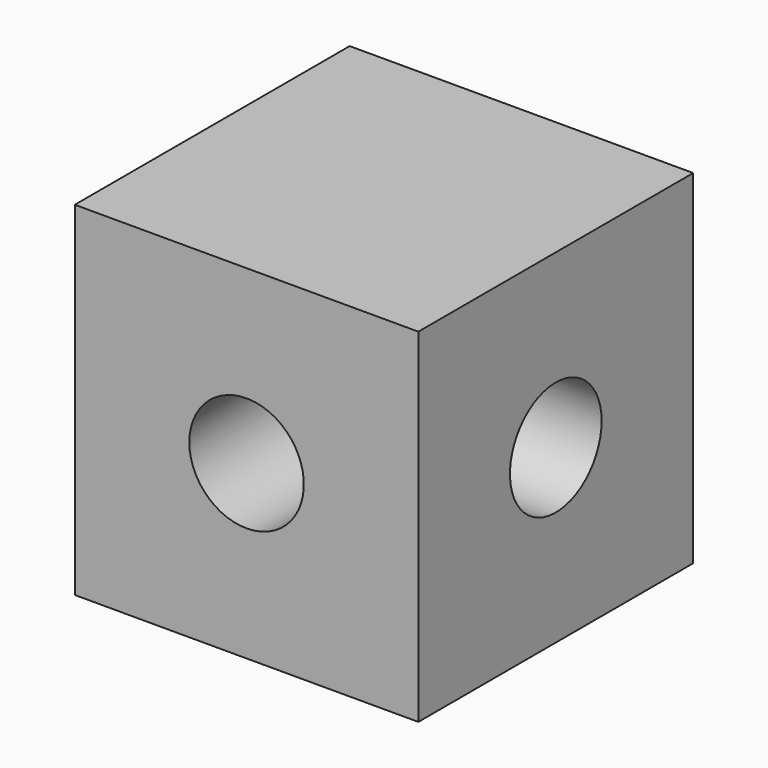
from build123d import *

# Parameters (mm, degrees)
F0_W       = 38.1
F0_H       = 38.1
F1_DEPTH   = 19.05
F4_D       = 12.7
F4_ON_F2_D = 12.7


with BuildPart() as f1:
    # F0 (on Front) → F1 (new body, symmetric)
    with BuildSketch(Plane.XZ):
        Rectangle(F0_W, F0_H)
    extrude(amount=F1_DEPTH, both=True)

    # F4 (through all)
    with Locations(Plane(origin=(-19.05, 0, 0), x_dir=(0, -1, 0), z_dir=(-1, 0, 0))):
        with Locations((0, 0)):
            Hole(F4_D / 2)

    # F4 on F2 (through all)
    with Locations(Plane.XZ.offset(19.05)):
        with Locations((0, 0)):
            Hole(F4_ON_F2_D / 2)


solid = f1.part
